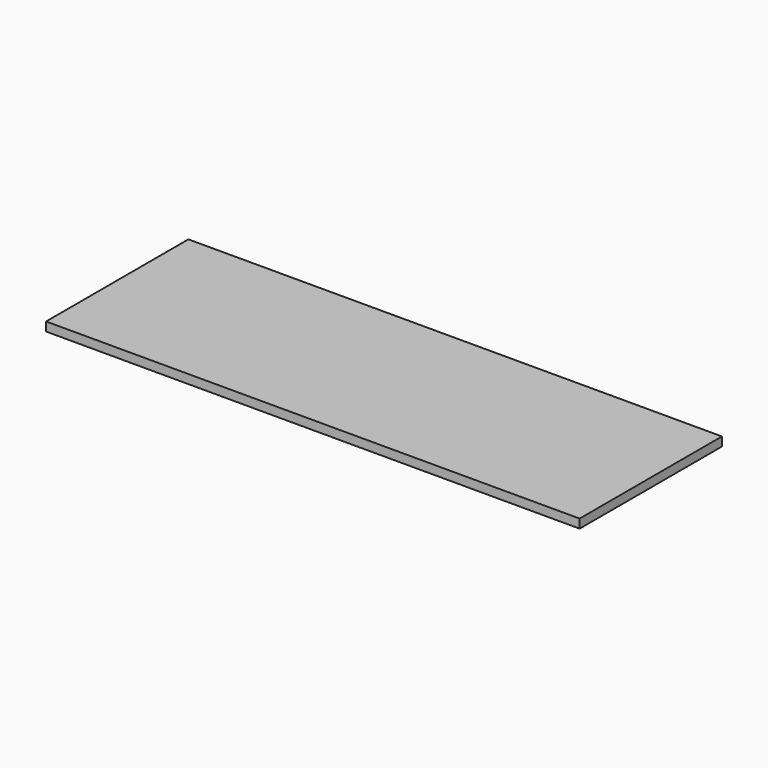
from build123d import *

# Parameters (mm, degrees)
F0_W     = 1500
F0_H     = 500
F1_DEPTH = 25
F2_DEPTH = 25
F3_DEPTH = 25


with BuildPart() as f1:
    # F0 (on Top) → F1 (new body)
    with BuildSketch(Plane.XY):
        with Locations((-157.654971, -70.865509)):
            Rectangle(F0_W, F0_H)
    extrude(amount=F1_DEPTH)

    # F0 (on Top) → F2 (join)
    with BuildSketch(Plane.XY):
        with Locations((-157.654971, -70.865509)):
            Rectangle(F0_W, F0_H)
    extrude(amount=F2_DEPTH)

    # F0 (on Top) → F3 (join)
    with BuildSketch(Plane.XY):
        with Locations((-157.654971, -70.865509)):
            Rectangle(F0_W, F0_H)
    extrude(amount=F3_DEPTH)


solid = f1.part
